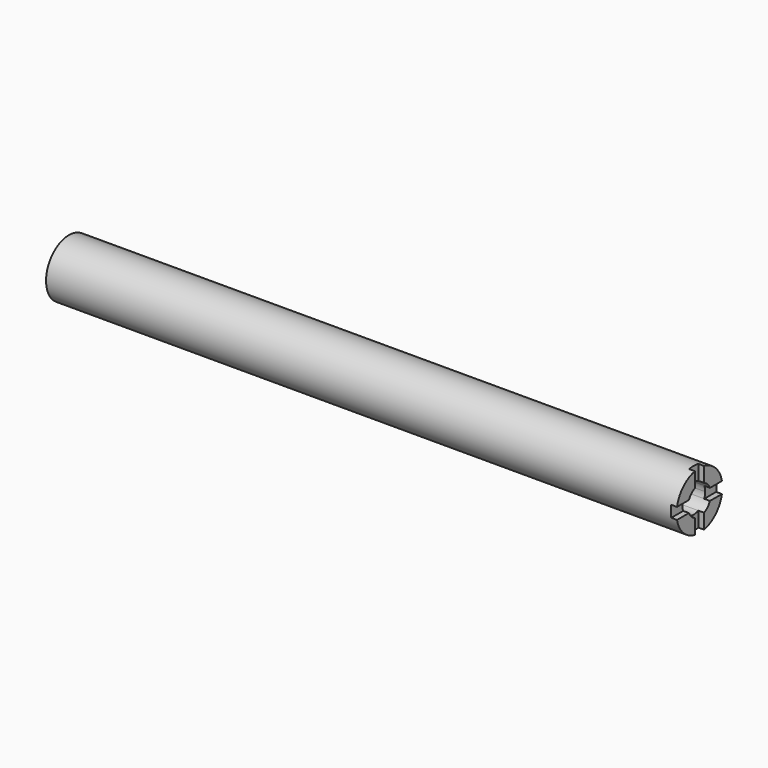
from build123d import *

# Parameters (mm, degrees)
F0_R     = 12.7
F1_DEPTH = 279.4
F3_DEPTH = 19.05
F4_DEPTH = 2.54


with BuildPart() as f1:
    # F0 (on Right) → F1 (new body)
    with BuildSketch(Plane.YZ):
        with Locations((27.4626761675, -22.4694665521)):
            Circle(F0_R)
    extrude(amount=-F1_DEPTH)

    # F2 (on face) → F3 (cut)
    with BuildSketch(Plane.YZ):
        with BuildLine():
            ThreePointArc((24.9226761675, -28.2893376847), (27.4626761675, -28.8194665521), (30.0026761675, -28.2893376847))
            ThreePointArc((30.0026761675, -28.2893376847), (31.952804228, -26.9595946127), (33.2825473001, -25.0094665521))
            ThreePointArc((33.2825473001, -25.0094665521), (33.6787312546, -23.7668327896), (33.8126761675, -22.4694665521))
            ThreePointArc((33.8126761675, -22.4694665521), (33.6787312546, -21.1721003147), (33.2825473001, -19.9294665521))
            ThreePointArc((33.2825473001, -19.9294665521), (31.952804228, -17.9793384916), (30.0026761675, -16.6495954195))
            ThreePointArc((30.0026761675, -16.6495954195), (27.4626761675, -16.1194665521), (24.9226761675, -16.6495954195))
            ThreePointArc((24.9226761675, -16.6495954195), (22.972548107, -17.9793384916), (21.6428050349, -19.9294665521))
            ThreePointArc((21.6428050349, -19.9294665521), (21.1126761675, -22.4694665521), (21.6428050349, -25.0094665521))
            ThreePointArc((21.6428050349, -25.0094665521), (22.972548107, -26.9595946127), (24.9226761675, -28.2893376847))
        make_face()
    extrude(amount=-F3_DEPTH, mode=Mode.SUBTRACT)

    # F2 (on face) → F4 (cut)
    with BuildSketch(Plane.YZ):
        with BuildLine():
            Line((15.0192682741, -25.0094665521), (21.6428050349, -25.0094665521))
            ThreePointArc((21.6428050349, -25.0094665521), (21.1126761675, -22.4694665521), (21.6428050349, -19.9294665521))
            Line((21.6428050349, -19.9294665521), (15.0192682741, -19.9294665521))
            ThreePointArc((15.0192682741, -19.9294665521), (14.7626761675, -22.4694665521), (15.0192682741, -25.0094665521))
        make_face()
        with BuildLine():
            Line((24.9226761675, -10.0260586588), (24.9226761675, -16.6495954195))
            ThreePointArc((24.9226761675, -16.6495954195), (27.4626761675, -16.1194665521), (30.0026761675, -16.6495954195))
            Line((30.0026761675, -16.6495954195), (30.0026761675, -10.0260586588))
            ThreePointArc((30.0026761675, -10.0260586588), (27.4626761675, -9.7694665521), (24.9226761675, -10.0260586588))
        make_face()
        with BuildLine():
            ThreePointArc((33.8126761675, -22.4694665521), (33.6787312546, -23.7668327896), (33.2825473001, -25.0094665521))
            Line((33.2825473001, -25.0094665521), (39.9060840608, -25.0094665521))
            ThreePointArc((39.9060840608, -25.0094665521), (40.0983653107, -23.7459303696), (40.1626761675, -22.4694665521))
            ThreePointArc((40.1626761675, -22.4694665521), (40.0983653107, -21.1930027347), (39.9060840608, -19.9294665521))
            Line((39.9060840608, -19.9294665521), (33.2825473001, -19.9294665521))
            ThreePointArc((33.2825473001, -19.9294665521), (33.6787312546, -21.1721003147), (33.8126761675, -22.4694665521))
        make_face()
        with BuildLine():
            Line((30.0026761675, -34.9128744455), (30.0026761675, -28.2893376847))
            ThreePointArc((30.0026761675, -28.2893376847), (27.4626761675, -28.8194665521), (24.9226761675, -28.2893376847))
            Line((24.9226761675, -28.2893376847), (24.9226761675, -34.9128744455))
            ThreePointArc((24.9226761675, -34.9128744455), (27.4626761675, -35.1694665521), (30.0026761675, -34.9128744455))
        make_face()
    extrude(amount=-F4_DEPTH, mode=Mode.SUBTRACT)


solid = f1.part
